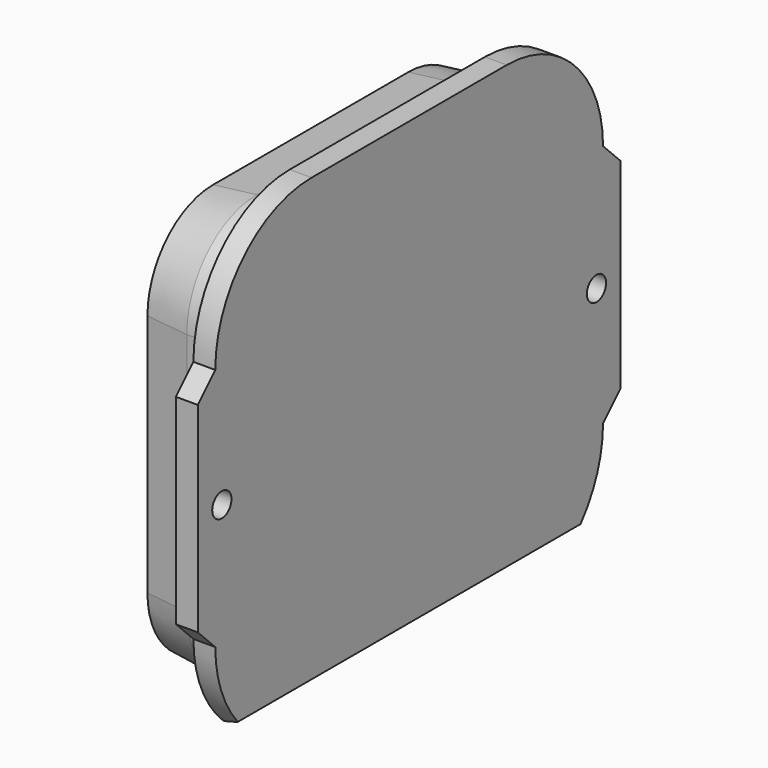
from build123d import *

# Parameters (mm, degrees)
F1_DEPTH = 2
F2_DEPTH = 4
F4_W     = 23.5562745947
F4_H     = 63.5293796659
F5_DEPTH = 3.5651598846
F7_DEPTH = 5
F8_SIZE2 = 0.5
F8_SIZE  = 4
F9_D     = 2.2


with BuildPart() as f1:
    # F0 (on Right) → F1 (new body)
    with BuildSketch(Plane.YZ):
        with BuildLine():
            Line((11.15, 21.65), (-11.15, 21.65))
            ThreePointArc((-11.15, 21.65), (-18.9281745931, 18.4281745931), (-22.15, 10.65))
            Line((-22.15, 10.65), (-22.15, -11.65))
            ThreePointArc((-22.15, -11.65), (-18.9281745931, -19.4281745931), (-11.15, -22.65))
            Line((-11.15, -22.65), (11.15, -22.65))
            ThreePointArc((11.15, -22.65), (18.9281745931, -19.4281745931), (22.15, -11.65))
            Line((22.15, -11.65), (22.15, 10.65))
            ThreePointArc((22.15, 10.65), (18.9281745931, 18.4281745931), (11.15, 21.65))
        make_face()
        with BuildLine():
            ThreePointArc((-19.15, 10.65), (-16.8068542495, 16.3068542495), (-11.15, 18.65))
            Line((-11.15, 18.65), (11.15, 18.65))
            ThreePointArc((11.15, 18.65), (16.8068542495, 16.3068542495), (19.15, 10.65))
            Line((19.15, 10.65), (19.15, -11.65))
            ThreePointArc((19.15, -11.65), (16.8068542495, -17.3068542495), (11.15, -19.65))
            Line((11.15, -19.65), (-11.15, -19.65))
            ThreePointArc((-11.15, -19.65), (-16.8068542495, -17.3068542495), (-19.15, -11.65))
            Line((-19.15, -11.65), (-19.15, 10.65))
        make_face(mode=Mode.SUBTRACT)
        with BuildLine():
            Line((11.15, 18.65), (-11.15, 18.65))
            ThreePointArc((-11.15, 18.65), (-16.8068542495, 16.3068542495), (-19.15, 10.65))
            Line((-19.15, 10.65), (-19.15, -11.65))
            ThreePointArc((-19.15, -11.65), (-16.8068542495, -17.3068542495), (-11.15, -19.65))
            Line((-11.15, -19.65), (11.15, -19.65))
            ThreePointArc((11.15, -19.65), (16.8068542495, -17.3068542495), (19.15, -11.65))
            Line((19.15, -11.65), (19.15, 10.65))
            ThreePointArc((19.15, 10.65), (16.8068542495, 16.3068542495), (11.15, 18.65))
        make_face()
        Polygon((-22.15, -11.65), (-22.15, 10.65), (-24.15, 8.65), (-24.15, -9.65), align=None)
        Polygon((24.15, 8.65), (22.15, 10.65), (22.15, -11.65), (24.15, -9.65), align=None)
    extrude(amount=-F1_DEPTH)

    # F0 (on Right) → F2 (join)
    with BuildSketch(Plane.YZ):
        with BuildLine():
            Line((11.15, 18.65), (-11.15, 18.65))
            ThreePointArc((-11.15, 18.65), (-16.8068542495, 16.3068542495), (-19.15, 10.65))
            Line((-19.15, 10.65), (-19.15, -11.65))
            ThreePointArc((-19.15, -11.65), (-16.8068542495, -17.3068542495), (-11.15, -19.65))
            Line((-11.15, -19.65), (11.15, -19.65))
            ThreePointArc((11.15, -19.65), (16.8068542495, -17.3068542495), (19.15, -11.65))
            Line((19.15, -11.65), (19.15, 10.65))
            ThreePointArc((19.15, 10.65), (16.8068542495, 16.3068542495), (11.15, 18.65))
        make_face()
    extrude(amount=-F2_DEPTH)

    # F4 (on face) → F5 (cut, through all)
    with BuildSketch(Plane(origin=(7.1691742633, 0, -15.3743438221), x_dir=(0.906307787, 0, 0.4226182617), z_dir=(0.4226182617, 0, -0.906307787))):
        with Locations((-8.6737343809, -4.5895911753)):
            Rectangle(F4_W, F4_H)
    extrude(amount=F5_DEPTH, mode=Mode.SUBTRACT)

    # F6 (on face) → F7 (join)
    with BuildSketch(Plane(origin=(-4, 0, 0), x_dir=(0, -1, 0), z_dir=(-1, 0, 0))):
        with BuildLine():
            ThreePointArc((19.15, 10.65), (16.8068542495, 16.3068542495), (11.15, 18.65))
            Line((11.15, 18.65), (-11.15, 18.65))
            ThreePointArc((-11.15, 18.65), (-16.8068542495, 16.3068542495), (-19.15, 10.65))
            Line((-19.15, 10.65), (-19.15, -11.65))
            ThreePointArc((-19.15, -11.65), (-16.8068542495, -17.3068542495), (-11.15, -19.65))
            Line((-11.15, -19.65), (11.15, -19.65))
            ThreePointArc((11.15, -19.65), (16.8068542495, -17.3068542495), (19.15, -11.65))
            Line((19.15, -11.65), (19.15, 10.65))
        make_face()
        with BuildLine():
            ThreePointArc((11.15, 15.65), (14.6855339059, 14.1855339059), (16.15, 10.65))
            Line((16.15, 10.65), (16.15, -11.65))
            ThreePointArc((16.15, -11.65), (14.6855339059, -15.1855339059), (11.15, -16.65))
            Line((11.15, -16.65), (-11.15, -16.65))
            ThreePointArc((-11.15, -16.65), (-14.6855339059, -15.1855339059), (-16.15, -11.65))
            Line((-16.15, -11.65), (-16.15, 10.65))
            ThreePointArc((-16.15, 10.65), (-14.6855339059, 14.1855339059), (-11.15, 15.65))
            Line((-11.15, 15.65), (11.15, 15.65))
        make_face(mode=Mode.SUBTRACT)
    extrude(amount=F7_DEPTH)

    # F8
    f8_edges = [f1.edges().sort_by_distance(p)[0] for p in [
        (-9, -16.806854, -17.306854),
        (-9, 0, -19.65),
        (-9, -19.15, -0.5),
    ]]
    chamfer(f8_edges, length=F8_SIZE, length2=F8_SIZE2)

    # F9 (through all)
    with Locations(Plane.YZ):
        with Locations((-21.4, -0.5), (21.4, -0.5)):
            Hole(F9_D / 2)


solid = f1.part
